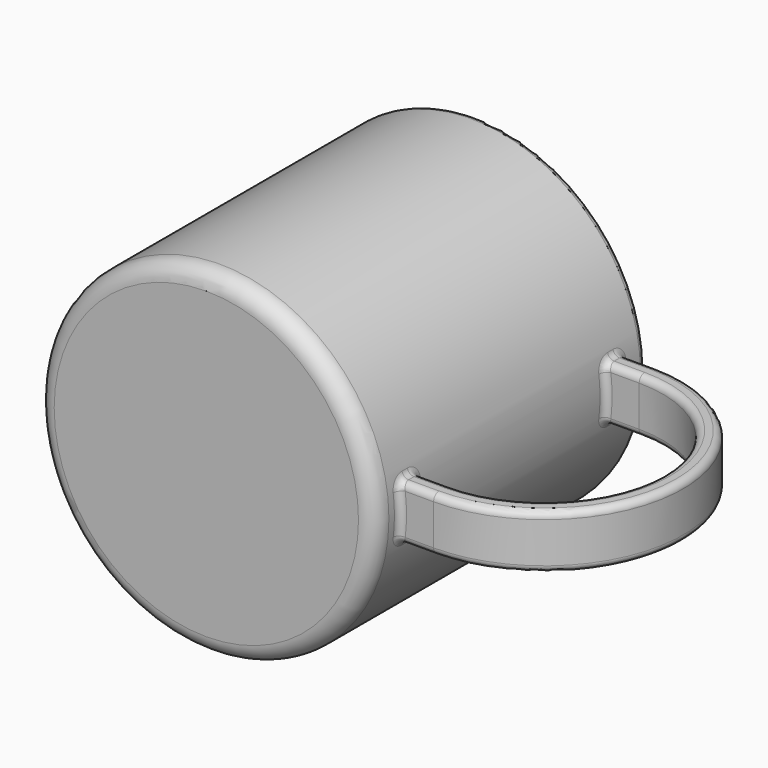
from build123d import *

# Parameters (mm, degrees)
PAD_DEPTH   = 8
FILLET_R    = 5
FILLET001_R = 2
FILLET002_R = 2


with BuildPart() as part:
    # Sketch → Revolution (revolve)
    with BuildSketch(Plane.XY):
        Polygon((0, 0), (50, 0), (50, 100), (44, 100), (44, 4), (0, 4), align=None)
    revolve(axis=Axis((0, 0, 0), (0, 1, 0)))

    # Sketch001 → Pad (new body, symmetric)
    with BuildSketch(Plane.XY):
        with BuildLine():
            ThreePointArc((59.999923, 15), (95, 49.999961), (60.000001, 85))
            Line((44.000077, 85), (60.000001, 85))
            Line((44.000077, 91), (44.000077, 85))
            Line((60.000001, 91), (44.000077, 91))
            ThreePointArc((59.999923, 9), (101, 49.999961), (60.000001, 91))
            Line((44, 9), (59.999923, 9))
            Line((44, 15), (44, 9))
            Line((59.999923, 15), (44, 15))
        make_face()
    extrude(amount=PAD_DEPTH, both=True)

    # Fillet
    fillet_edges = [part.edges().sort_by_distance(p)[0] for p in [
        (-50, 0, 0),
    ]]
    fillet(fillet_edges, radius=FILLET_R)

    # Fillet001
    fillet001_edges = [part.edges().sort_by_distance(p)[0] for p in [
        (-50, 100, 0),
        (-44, 4, 0),
        (-44, 100, 0),
    ]]
    fillet(fillet001_edges, radius=FILLET001_R)

    # Fillet002
    fillet002_edges = [part.edges().sort_by_distance(p)[0] for p in [
        (101, 49.999961, 8),
        (101, 49.999961, -8),
        (49.355851, 88, 8),
        (49.838703, 91, 4.012946),
        (49.838703, 91, -4.012946),
        (49.355851, 88, -8),
        (49.838703, 85, -4.012946),
        (49.838703, 85, 4.012946),
        (49.355851, 12, -8),
        (49.838703, 9, -4.012946),
        (49.838703, 9, 4.012946),
        (49.838703, 15, -4.012946),
        (49.838703, 15, 4.012946),
        (49.355851, 12, 8),
        (95, 49.999961, -8),
        (95, 49.999961, 8),
    ]]
    fillet(fillet002_edges, radius=FILLET002_R)


solid = part.part
